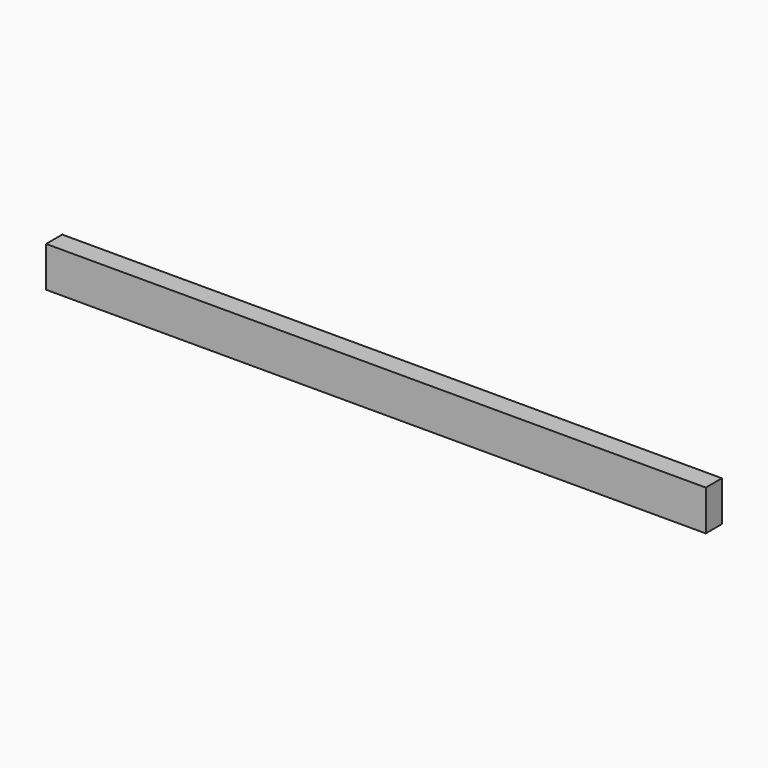
from build123d import *

# Parameters (mm, degrees)
F0_W     = 161.0525511205
F0_H     = 48.0719506741
F1_DEPTH = 19.05
F2_W     = 19.05
F2_H     = 48.0719506741
F3_DEPTH = 622.3
F4_DEPTH = 161.0614
F5_DEPTH = 9.9822


with BuildPart() as f1:
    # F0 (on Front) → F1 (new body)
    with BuildSketch(Plane.XZ):
        with Locations((-10.0732576102, 8.6007639766)):
            Rectangle(F0_W, F0_H)
    extrude(amount=F1_DEPTH)

    # F2 (on face) → F3 (join)
    with BuildSketch(Plane.YZ.offset(70.4530179501)):
        with Locations((-9.525, 8.6007639766)):
            Rectangle(F2_W, F2_H)
    extrude(amount=F3_DEPTH)

    # F4 (cut): a face of the model
    f4_faces = [f1.faces().sort_by_distance(p)[0] for p in [
        (692.7530179501, -9.525, 8.6007639766),
    ]]
    extrude(f4_faces, amount=-F4_DEPTH, mode=Mode.SUBTRACT)

    # F5 (cut): a face of the model
    f5_faces = [f1.faces().sort_by_distance(p)[0] for p in [
        (220.5460423898, -9.525, -15.4352113605),
    ]]
    extrude(f5_faces, amount=-F5_DEPTH, mode=Mode.SUBTRACT)


solid = f1.part
